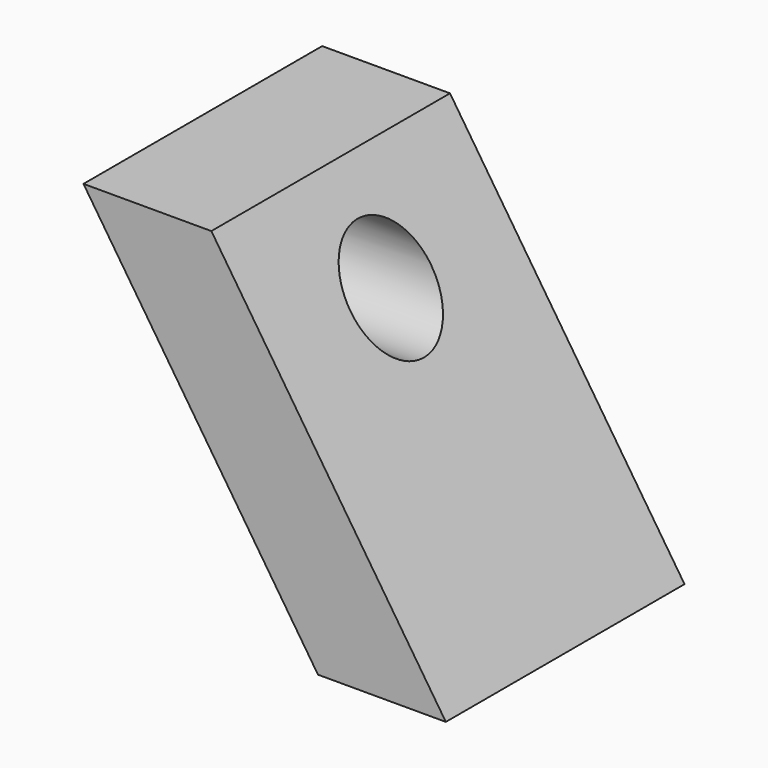
from build123d import *

# Parameters (mm, degrees)
F1_DEPTH = 88.9
F2_R     = 15
F3_DEPTH = 107.983715


with BuildPart() as f1:
    # F0 (on Front) → F1 (new body)
    with BuildSketch(Plane.XZ):
        Polygon((-38.1, 0), (0, 0), (-69.882715, 106.044359), (-107.982715, 106.044359), align=None)
    extrude(amount=F1_DEPTH)

    # F2 (on Right) → F3 (cut, through all)
    with BuildSketch(Plane.YZ):
        with Locations((-44.45, 78.846022)):
            Circle(F2_R)
    extrude(amount=-F3_DEPTH, mode=Mode.SUBTRACT)


solid = f1.part
